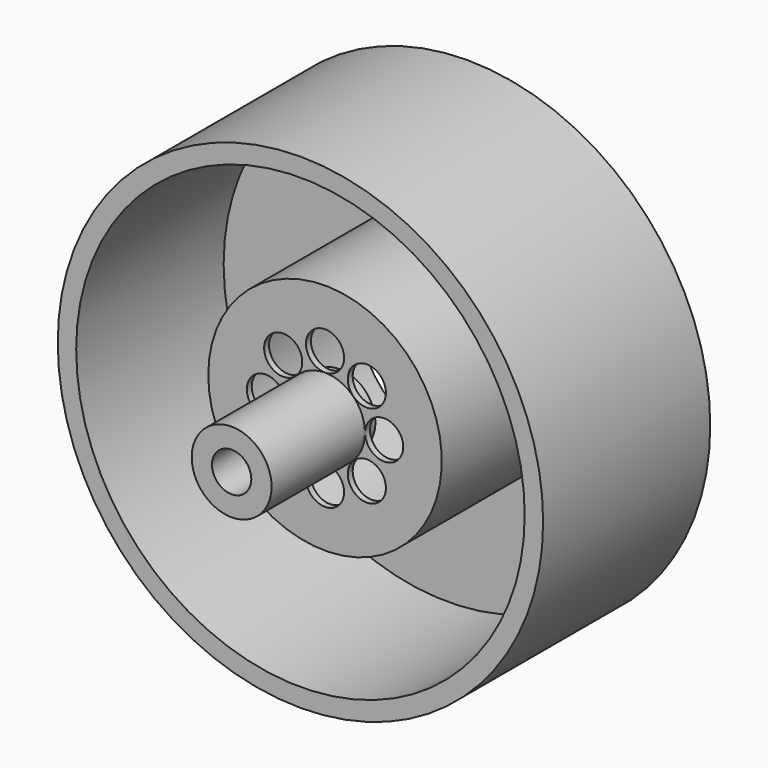
from build123d import *

# Parameters (mm, degrees)
F0_R      = 19.75
F1_DEPTH  = 17
F2_R      = 18.25
F3_DEPTH  = 15
F4_R      = 9.5
F5_DEPTH  = 14.5
F6_R      = 9.25
F7_DEPTH  = 14
F8_R      = 3.25
F9_DEPTH  = 9.5
F10_R     = 1.6
F11_DEPTH = 7
F12_R     = 1.551351
F13_DEPTH = 25.4
F14_DEPTH = 25.4
F15_R     = 2.896187
F16_DEPTH = 1
F17_R     = 1.546412
F18_DEPTH = 1
F19_R     = 0.295483
F20_DEPTH = 0.2


with BuildPart() as f1:
    # F0 (on Front) → F1 (new body)
    with BuildSketch(Plane.XZ):
        Circle(F0_R)
    extrude(amount=F1_DEPTH)

    # F2 (on face) → F3 (cut)
    with BuildSketch(Plane.XZ.offset(17)):
        Circle(F2_R)
    extrude(amount=-F3_DEPTH, mode=Mode.SUBTRACT)

    # F4 (on face) → F5 (join)
    with BuildSketch(Plane(origin=(0, 0, 0), x_dir=(-1, 0, 0), z_dir=(0, 1, 0))):
        Circle(F4_R)
    extrude(amount=-F5_DEPTH)

    # F6 (on face) → F7 (cut)
    with BuildSketch(Plane(origin=(0, 0, 0), x_dir=(-1, 0, 0), z_dir=(0, 1, 0))):
        Circle(F6_R)
    extrude(amount=-F7_DEPTH, mode=Mode.SUBTRACT)

    # F8 (on face) → F9 (join)
    with BuildSketch(Plane.XZ.offset(14.5)):
        Circle(F8_R)
    extrude(amount=F9_DEPTH)

    # F10 (on face) → F11 (cut)
    with BuildSketch(Plane.XZ.offset(24)):
        Circle(F10_R)
    extrude(amount=-F11_DEPTH, mode=Mode.SUBTRACT)

    # F12 (on face) → F13 (cut)
    with BuildSketch(Plane(origin=(0, -14, 0), x_dir=(-1, 0, 0), z_dir=(0, 1, 0))):
        with Locations((0, 4.813187)):
            Circle(F12_R)
    extrude(amount=-F13_DEPTH, mode=Mode.SUBTRACT)

    # F12 (on face) → F14 (cut)
    with BuildSketch(Plane(origin=(0, -14, 0), x_dir=(-1, 0, 0), z_dir=(0, 1, 0))):
        with Locations((-3.403437, 3.403437)):
            Circle(F12_R)
        with Locations((-4.813187, 0)):
            Circle(F12_R)
        with Locations((-3.403437, -3.403437)):
            Circle(F12_R)
        with Locations((0, -4.813187)):
            Circle(F12_R)
        with Locations((3.403437, -3.403437)):
            Circle(F12_R)
        with Locations((4.813187, 0)):
            Circle(F12_R)
        with Locations((3.403437, 3.403437)):
            Circle(F12_R)
    extrude(amount=-F14_DEPTH, mode=Mode.SUBTRACT)

    # F15 (on face) → F16 (join)
    with BuildSketch(Plane(origin=(0, -14, 0), x_dir=(-1, 0, 0), z_dir=(0, 1, 0))):
        Circle(F15_R)
    extrude(amount=F16_DEPTH)

    # F17 (on face) → F18 (join)
    with BuildSketch(Plane(origin=(0, -13, 0), x_dir=(-1, 0, 0), z_dir=(0, 1, 0))):
        Circle(F17_R)
    extrude(amount=F18_DEPTH)

    # F19 (on face) → F20 (join)
    with BuildSketch(Plane(origin=(0, -13, 0), x_dir=(-1, 0, 0), z_dir=(0, 1, 0))):
        with Locations((-1.352597, 1.86169)):
            Circle(F19_R)
        with Locations((0, 2.301175)):
            Circle(F19_R)
        with Locations((1.352597, 1.86169)):
            Circle(F19_R)
        with Locations((2.188547, 0.711102)):
            Circle(F19_R)
        with Locations((2.188547, -0.711102)):
            Circle(F19_R)
        with Locations((1.352597, -1.86169)):
            Circle(F19_R)
        with Locations((0, -2.301175)):
            Circle(F19_R)
        with Locations((-1.352597, -1.86169)):
            Circle(F19_R)
        with Locations((-2.188547, -0.711102)):
            Circle(F19_R)
        with Locations((-2.188547, 0.711102)):
            Circle(F19_R)
    extrude(amount=F20_DEPTH)


solid = f1.part
